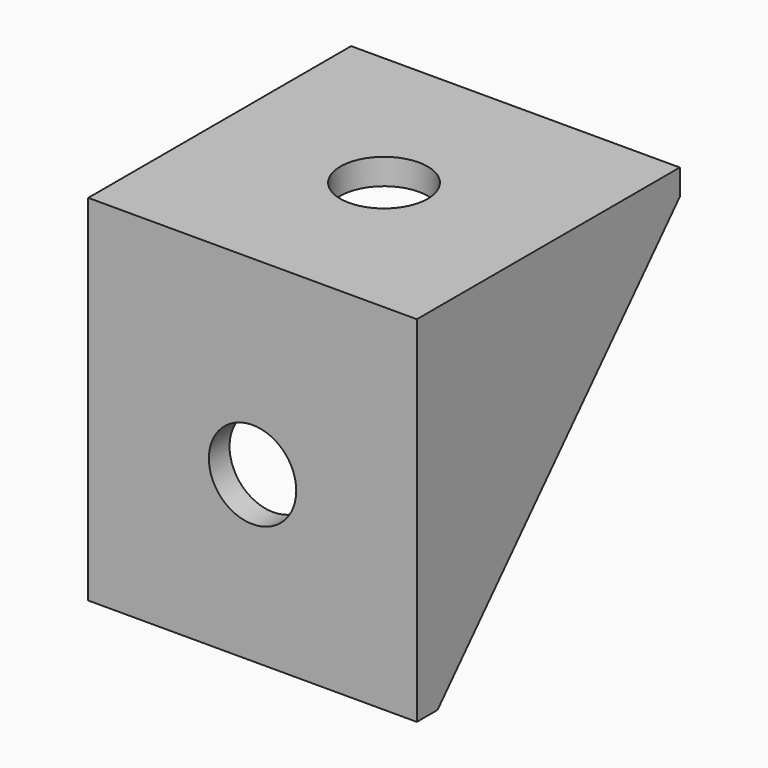
from build123d import *

# Parameters (mm, degrees)
SKETCH_W     = 25.4
SKETCH_H     = 25.4
SKETCH_R     = 3.3782
PAD_DEPTH    = 2
SKETCH001_W  = 25.4
SKETCH001_H  = 25.4
SKETCH001_R  = 3.3782
PAD001_DEPTH = 2
PAD002_DEPTH = 2


with BuildPart() as part:
    # Sketch → Pad (new body)
    with BuildSketch(Plane.XY):
        with Locations((0, 12.7)):
            Rectangle(SKETCH_W, SKETCH_H)
        with Locations((0, 12.7)):
            Circle(SKETCH_R, mode=Mode.SUBTRACT)
    extrude(amount=PAD_DEPTH)

    # Sketch001 → Pad001 (join)
    with BuildSketch(Plane.XZ):
        with Locations((0, -12.7)):
            Rectangle(SKETCH001_W, SKETCH001_H)
        with Locations((0, -12.7)):
            Circle(SKETCH001_R, mode=Mode.SUBTRACT)
    extrude(amount=-PAD001_DEPTH)

    # Sketch002 (on Face9 of Pad001) → Pad002 (join)
    with BuildSketch(Plane.YZ.offset(12.7)):
        Polygon((2, -25.4), (2, 0), (25.4, 0), align=None)
    pad002 = extrude(amount=-PAD002_DEPTH)

    # Mirrored: Pad002 across YZ
    add(pad002.mirror(Plane.YZ))


solid = part.part
